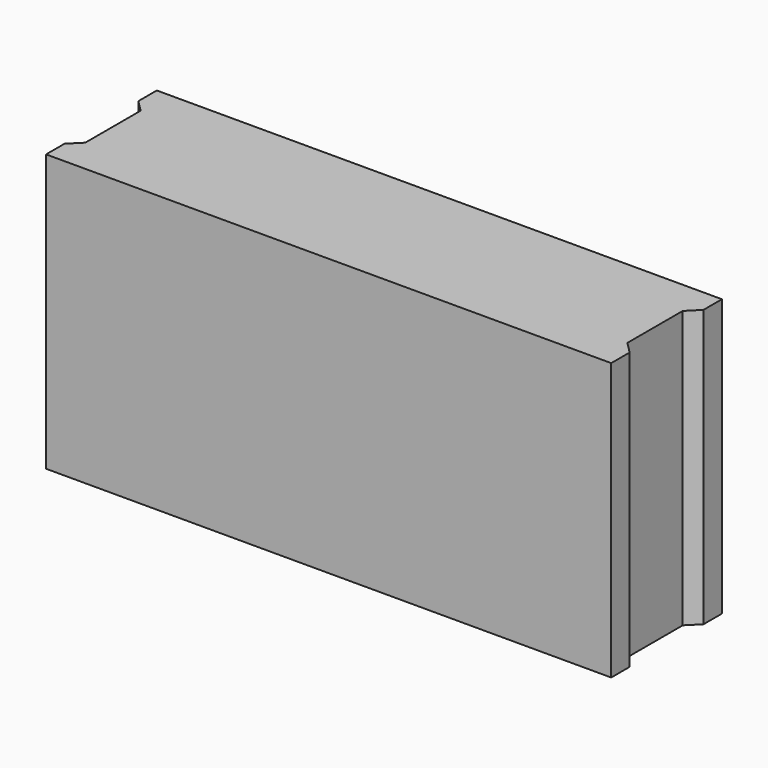
from build123d import *

# Parameters (mm, degrees)
F1_DEPTH = 240
F2_DEPTH = 220


with BuildPart() as f1:
    # F0 (on Top) → F1 (new body)
    with BuildSketch(Plane.XY):
        Polygon((0, 20), (0, 0), (490, 0), (490, 20), (480, 30), (480, 60), (480, 90), (490, 100), (490, 120), (0, 120), (0, 100), (10, 90), (10, 60), (10, 30), align=None)
        with BuildLine():
            ThreePointArc((30, 90), (32.928932, 97.071068), (40, 100))
            Line((40, 100), (150, 100))
            ThreePointArc((150, 100), (157.071068, 97.071068), (160, 90))
            Line((160, 90), (160, 30))
            ThreePointArc((160, 30), (157.071068, 22.928932), (150, 20))
            Line((150, 20), (40, 20))
            ThreePointArc((40, 20), (32.928932, 22.928932), (30, 30))
            Line((30, 30), (30, 90))
        make_face(mode=Mode.SUBTRACT)
        with BuildLine():
            ThreePointArc((180, 90), (182.928932, 97.071068), (190, 100))
            Line((190, 100), (300, 100))
            ThreePointArc((300, 100), (307.071068, 97.071068), (310, 90))
            Line((310, 90), (310, 30))
            ThreePointArc((310, 30), (307.071068, 22.928932), (300, 20))
            Line((300, 20), (190, 20))
            ThreePointArc((190, 20), (182.928932, 22.928932), (180, 30))
            Line((180, 30), (180, 90))
        make_face(mode=Mode.SUBTRACT)
        with BuildLine():
            ThreePointArc((330, 90), (332.928932, 97.071068), (340, 100))
            Line((340, 100), (450, 100))
            ThreePointArc((450, 100), (457.071068, 97.071068), (460, 90))
            Line((460, 90), (460, 30))
            ThreePointArc((460, 30), (457.071068, 22.928932), (450, 20))
            Line((450, 20), (340, 20))
            ThreePointArc((340, 20), (332.928932, 22.928932), (330, 30))
            Line((330, 30), (330, 90))
        make_face(mode=Mode.SUBTRACT)
        with BuildLine():
            Line((150, 100), (40, 100))
            ThreePointArc((40, 100), (32.928932, 97.071068), (30, 90))
            Line((30, 90), (30, 30))
            ThreePointArc((30, 30), (32.928932, 22.928932), (40, 20))
            Line((40, 20), (150, 20))
            ThreePointArc((150, 20), (157.071068, 22.928932), (160, 30))
            Line((160, 30), (160, 90))
            ThreePointArc((160, 90), (157.071068, 97.071068), (150, 100))
        make_face()
        with BuildLine():
            Line((300, 100), (190, 100))
            ThreePointArc((190, 100), (182.928932, 97.071068), (180, 90))
            Line((180, 90), (180, 30))
            ThreePointArc((180, 30), (182.928932, 22.928932), (190, 20))
            Line((190, 20), (300, 20))
            ThreePointArc((300, 20), (307.071068, 22.928932), (310, 30))
            Line((310, 30), (310, 90))
            ThreePointArc((310, 90), (307.071068, 97.071068), (300, 100))
        make_face()
        with BuildLine():
            Line((450, 100), (340, 100))
            ThreePointArc((340, 100), (332.928932, 97.071068), (330, 90))
            Line((330, 90), (330, 30))
            ThreePointArc((330, 30), (332.928932, 22.928932), (340, 20))
            Line((340, 20), (450, 20))
            ThreePointArc((450, 20), (457.071068, 22.928932), (460, 30))
            Line((460, 30), (460, 90))
            ThreePointArc((460, 90), (457.071068, 97.071068), (450, 100))
        make_face()
    extrude(amount=F1_DEPTH)

    # F0 (on Top) → F2 (cut)
    with BuildSketch(Plane.XY):
        with BuildLine():
            Line((150, 100), (40, 100))
            ThreePointArc((40, 100), (32.928932, 97.071068), (30, 90))
            Line((30, 90), (30, 30))
            ThreePointArc((30, 30), (32.928932, 22.928932), (40, 20))
            Line((40, 20), (150, 20))
            ThreePointArc((150, 20), (157.071068, 22.928932), (160, 30))
            Line((160, 30), (160, 90))
            ThreePointArc((160, 90), (157.071068, 97.071068), (150, 100))
        make_face()
        with BuildLine():
            Line((300, 100), (190, 100))
            ThreePointArc((190, 100), (182.928932, 97.071068), (180, 90))
            Line((180, 90), (180, 30))
            ThreePointArc((180, 30), (182.928932, 22.928932), (190, 20))
            Line((190, 20), (300, 20))
            ThreePointArc((300, 20), (307.071068, 22.928932), (310, 30))
            Line((310, 30), (310, 90))
            ThreePointArc((310, 90), (307.071068, 97.071068), (300, 100))
        make_face()
        with BuildLine():
            Line((450, 100), (340, 100))
            ThreePointArc((340, 100), (332.928932, 97.071068), (330, 90))
            Line((330, 90), (330, 30))
            ThreePointArc((330, 30), (332.928932, 22.928932), (340, 20))
            Line((340, 20), (450, 20))
            ThreePointArc((450, 20), (457.071068, 22.928932), (460, 30))
            Line((460, 30), (460, 90))
            ThreePointArc((460, 90), (457.071068, 97.071068), (450, 100))
        make_face()
    extrude(amount=F2_DEPTH, mode=Mode.SUBTRACT)


solid = f1.part
